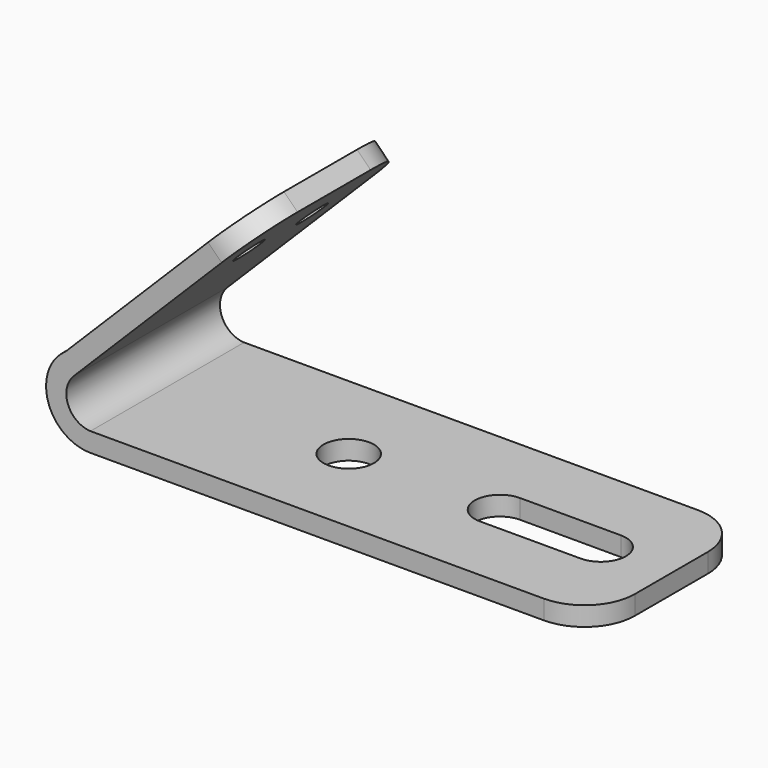
from build123d import *

# Parameters (mm, degrees)
F0_W     = 50
F0_H     = 19.05
F0_R     = 2.5
F1_DEPTH = 1.9
F2_R     = 5
F4_DEPTH = 19.05
F5_R     = 5
F6_R     = 1.5
F7_DEPTH = 5


with BuildPart() as f1:
    # F0 (on Top) → F1 (new body)
    with BuildSketch(Plane.XY):
        with Locations((7, 0)):
            Rectangle(F0_W, F0_H)
        Circle(F0_R, mode=Mode.SUBTRACT)
        with BuildLine():
            ThreePointArc((25.0017541021, 2.4929631711), (26.7634116596, 1.762171322), (27.4929637882, 0))
            ThreePointArc((27.4929637882, 0), (26.7634116596, -1.762171322), (25.0017541021, -2.4929631711))
            Line((25.0017541021, -2.4929631711), (15.0017590529, -2.4999993811))
            ThreePointArc((15.0017590529, -2.4999993811), (12.5, 0), (15.0017590529, 2.4999993811))
            Line((15.0017590529, 2.4999993811), (25.0017541021, 2.4929631711))
        make_face(mode=Mode.SUBTRACT)
    extrude(amount=F1_DEPTH)

    # F2
    f2_edges = [f1.edges().sort_by_distance(p)[0] for p in [
        (32, -9.525, 0.95),
        (32, 9.525, 0.95),
    ]]
    fillet(f2_edges, radius=F2_R)

    # F3 (on face) → F4 (join)
    with BuildSketch(Plane.XZ.offset(9.525)):
        with BuildLine():
            Line((-2.7983656003, 25.7148731307), (-20.47603513, 8.037203601))
            ThreePointArc((-20.47603513, 8.037203601), (-22.2049789443, 3.1045649079), (-18, 0))
            Line((-18, 0), (-18, 1.9))
            ThreePointArc((-18, 1.9), (-20.2226399871, 3.4906627434), (-19.6607572738, 6.1654756887))
            Line((-19.6607572738, 6.1654756887), (-1.454862716, 24.3713702464))
            Line((-1.454862716, 24.3713702464), (-2.7983656003, 25.7148731307))
        make_face()
    extrude(amount=-F4_DEPTH)

    # F5
    f5_edges = [f1.edges().sort_by_distance(p)[0] for p in [
        (-2.126614, -9.525, 25.043122),
        (-2.126614, 9.525, 25.043122),
    ]]
    fillet(f5_edges, radius=F5_R)

    # F6 (on face) → F7 (cut)
    with BuildSketch(Plane(origin=(-14.2566193655, 0, 14.2566193655), x_dir=(0, -1, 0), z_dir=(-0.7071067812, 0, 0.7071067812))):
        with Locations((-3.9354462066, 8.6580958872)):
            Circle(F6_R)
        with Locations((3.9404836009, 8.701013138)):
            Circle(F6_R)
    extrude(amount=-F7_DEPTH, mode=Mode.SUBTRACT)


solid = f1.part
